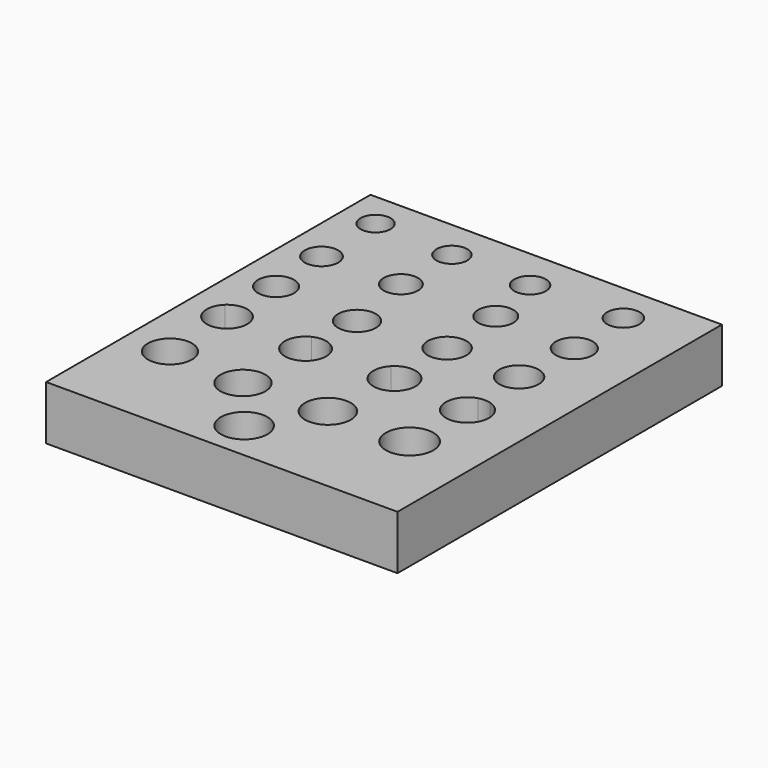
from build123d import *

# Parameters (mm, degrees)
F0_R     = 8.4582
F0_R_2   = 7.8486
F0_R_3   = 8.8773
F0_R_4   = 8.0518
F0_R_5   = 7.0358
F0_R_6   = 7.239
F0_R_7   = 9.0932
F0_R_8   = 9.2583
F0_R_9   = 8.6741
F0_R_10  = 8.255
F0_R_11  = 7.4422
F0_R_12  = 7.6454
F0_R_13  = 10.3378
F0_R_14  = 10.9474
F0_R_15  = 10.541
F0_R_16  = 10.7442
F0_R_17  = 11.1633
F1_DEPTH = 25.4


with BuildPart() as f1:
    # F0 (on Top) → F1 (new body)
    with BuildSketch(Plane.XY):
        with BuildLine():
            Line((-406.59969, -70.676798), (-571.69969, -70.676798))
            Line((-571.69969, -70.676798), (-571.69969, -172.276798))
            Line((-571.69969, -172.276798), (-558.822866, -172.276798))
            ThreePointArc((-558.822866, -172.276798), (-552.297592, -169.681052), (-545.772318, -172.276798))
            Line((-545.772318, -172.276798), (-518.032941, -172.276798))
            ThreePointArc((-518.032941, -172.276798), (-513.896823, -171.351062), (-509.760705, -172.276798))
            Line((-509.760705, -172.276798), (-480.744444, -172.276798))
            ThreePointArc((-480.744444, -172.276798), (-473.622829, -169.261952), (-466.501213, -172.276798))
            Line((-466.501213, -172.276798), (-439.940868, -172.276798))
            ThreePointArc((-439.940868, -172.276798), (-437.095284, -171.868574), (-434.249701, -172.276798))
            Line((-434.249701, -172.276798), (-406.59969, -172.276798))
            Line((-406.59969, -172.276798), (-406.59969, -70.676798))
        make_face()
        with Locations((-553.23422, -149.209321)):
            Circle(F0_R, mode=Mode.SUBTRACT)
        with Locations((-555.107415, -120.174579)):
            Circle(F0_R_2, mode=Mode.SUBTRACT)
        with Locations((-512.960255, -152.019128)):
            Circle(F0_R_3, mode=Mode.SUBTRACT)
        with Locations((-518.579841, -119.237974)):
            Circle(F0_R_4, mode=Mode.SUBTRACT)
        with Locations((-555.918932, -87.42407)):
            Circle(F0_R_5, mode=Mode.SUBTRACT)
        with Locations((-518.579841, -89.266635)):
            Circle(F0_R_6, mode=Mode.SUBTRACT)
        with Locations((-473.622829, -148.272708)):
            Circle(F0_R_7, mode=Mode.SUBTRACT)
        with Locations((-438.734184, -149.628493)):
            Circle(F0_R_8, mode=Mode.SUBTRACT)
        with Locations((-437.095284, -119.237974)):
            Circle(F0_R_9, mode=Mode.SUBTRACT)
        with Locations((-475.496054, -117.364764)):
            Circle(F0_R_10, mode=Mode.SUBTRACT)
        with Locations((-481.115669, -90.203241)):
            Circle(F0_R_11, mode=Mode.SUBTRACT)
        with Locations((-438.031882, -89.266635)):
            Circle(F0_R_12, mode=Mode.SUBTRACT)
        with BuildLine():
            Line((-558.822866, -172.276798), (-571.69969, -172.276798))
            Line((-571.69969, -172.276798), (-571.69969, -261.176798))
            Line((-571.69969, -261.176798), (-406.59969, -261.176798))
            Line((-406.59969, -261.176798), (-406.59969, -172.276798))
            Line((-406.59969, -172.276798), (-434.249701, -172.276798))
            ThreePointArc((-434.249701, -172.276798), (-428.994187, -175.922108), (-426.973384, -181.990474))
            ThreePointArc((-426.973384, -181.990474), (-443.163651, -190.091572), (-439.940868, -172.276798))
            Line((-439.940868, -172.276798), (-466.501213, -172.276798))
            ThreePointArc((-466.501213, -172.276798), (-464.429957, -175.456176), (-463.704129, -179.180652))
            ThreePointArc((-463.704129, -179.180652), (-477.347305, -188.373524), (-480.744444, -172.276798))
            Line((-480.744444, -172.276798), (-509.760705, -172.276798))
            ThreePointArc((-509.760705, -172.276798), (-505.703037, -175.857113), (-504.194023, -181.053862))
            ThreePointArc((-504.194023, -181.053862), (-519.093572, -189.247648), (-518.032941, -172.276798))
            Line((-518.032941, -172.276798), (-545.772318, -172.276798))
            ThreePointArc((-545.772318, -172.276798), (-543.573204, -175.422001), (-542.797992, -179.180652))
            ThreePointArc((-542.797992, -179.180652), (-556.056243, -187.90504), (-558.822866, -172.276798))
        make_face()
        with Locations((-551.361024, -213.835016)):
            Circle(F0_R_13, mode=Mode.SUBTRACT)
        with Locations((-493.291527, -242.86975)):
            Circle(F0_R_14, mode=Mode.SUBTRACT)
        with Locations((-514.83345, -216.644824)):
            Circle(F0_R_15, mode=Mode.SUBTRACT)
        with Locations((-476.432651, -214.771613)):
            Circle(F0_R_16, mode=Mode.SUBTRACT)
        with Locations((-438.031882, -214.771613)):
            Circle(F0_R_17, mode=Mode.SUBTRACT)
    extrude(amount=F1_DEPTH)


solid = f1.part
